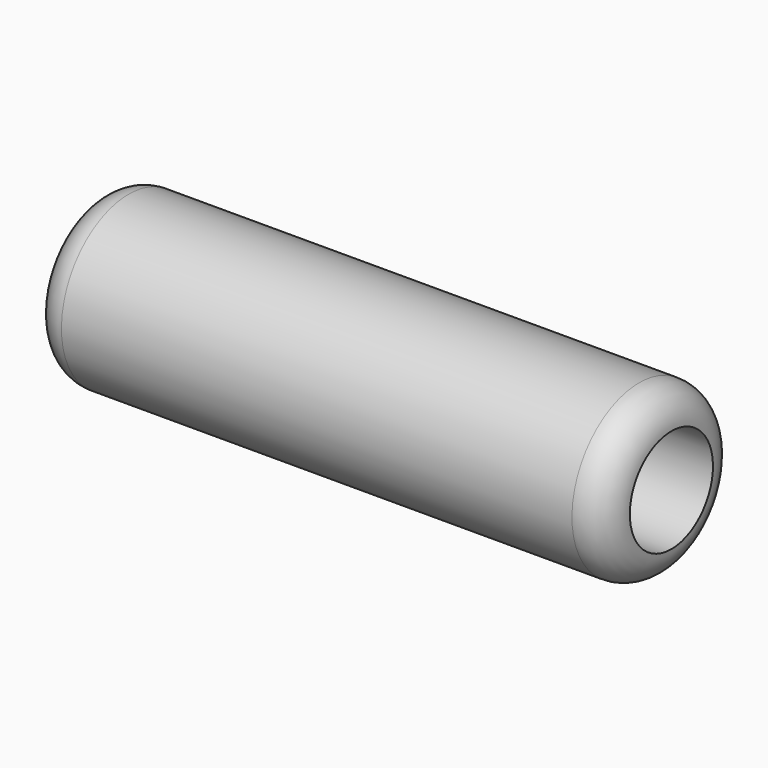
from build123d import *


with BuildPart() as f1:
    # F0 (on Front) → F1 (revolve)
    with BuildSketch(Plane.XZ):
        with BuildLine():
            ThreePointArc((-68.266316, 6.35), (-66.406444, 1.859872), (-61.916316, 0))
            Line((-61.916316, 0), (38.896284, 0))
            ThreePointArc((38.896284, 0), (43.386412, 1.859872), (45.246284, 6.35))
            Line((45.246284, 6.35), (-64.303916, 6.35))
            Line((-64.303916, 6.35), (-64.303916, 12.7))
            Line((-64.303916, 12.7), (-68.266316, 12.7))
            Line((-68.266316, 12.7), (-68.266316, 6.35))
        make_face()
    revolve(axis=Axis((-11.510016, 0, 16.6116), (1, 0, 0)))


solid = f1.part
